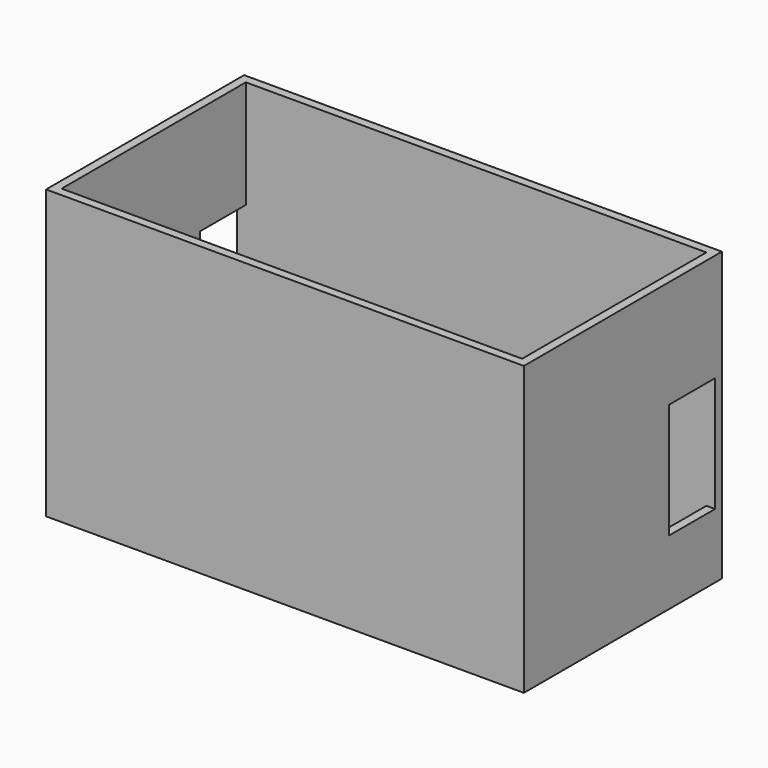
from build123d import *

# Parameters (mm, degrees)
F0_W     = 160
F0_H     = 80
F1_DEPTH = 3
F0_W_2   = 166
F0_H_2   = 86
F2_DEPTH = 100
F3_W     = 20
F3_H     = 40
F4_DEPTH = 166.001


with BuildPart() as f1:
    # F0 (on Top) → F1 (new body)
    with BuildSketch(Plane.XY):
        Rectangle(F0_W, F0_H)
    extrude(amount=F1_DEPTH)


with BuildPart() as f2:
    # F0 (on Top) → F2 (new body)
    with BuildSketch(Plane.XY):
        Rectangle(F0_W_2, F0_H_2)
        Rectangle(F0_W, F0_H, mode=Mode.SUBTRACT)
    extrude(amount=F2_DEPTH)

    # F3 (on face) → F4 (cut, through all)
    with BuildSketch(Plane(origin=(-83, 0, 0), x_dir=(0, -1, 0), z_dir=(-1, 0, 0))):
        with Locations((-30, 42.5)):
            Rectangle(F3_W, F3_H)
    extrude(amount=-F4_DEPTH, mode=Mode.SUBTRACT)


solid = Compound([f1.part, f2.part])
